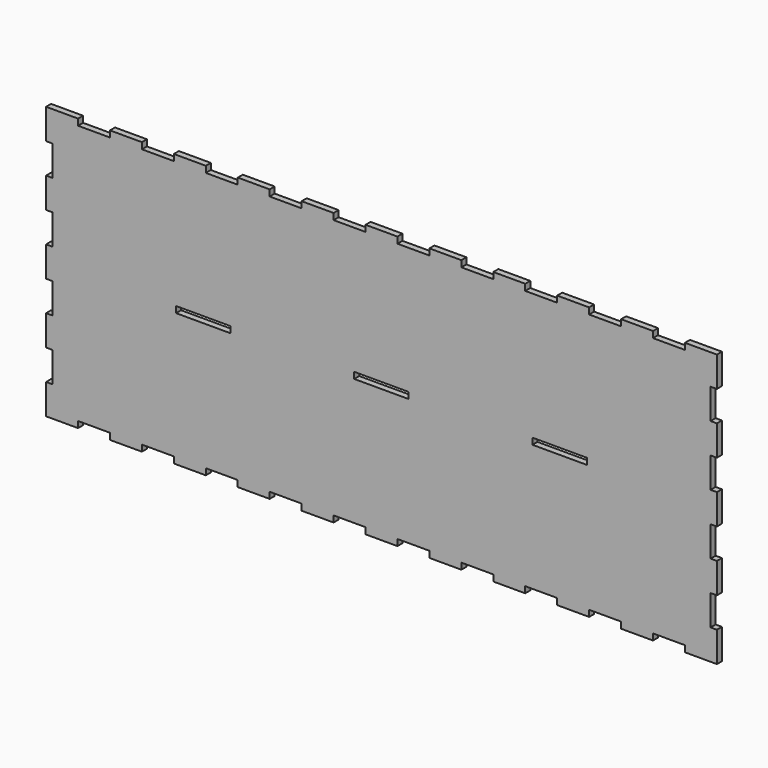
from build123d import *

# Parameters (mm, degrees)
F0_W     = 26
F0_H     = 3
F1_DEPTH = 3


with BuildPart() as f1:
    # F0 (on Front) → F1 (new body)
    with BuildSketch(Plane.XZ):
        Polygon((160, 61.999998), (160, 64.999998), (144.761429, 64.999998), (144.761429, 61.999998), (129.523333, 61.999998), (129.523333, 64.999998), (114.285238, 64.999998), (114.285238, 61.999998), (99.047143, 61.999998), (99.047143, 64.999998), (83.809048, 64.999998), (83.809048, 61.999998), (68.570952, 61.999998), (68.570952, 64.999998), (53.332952, 64.999998), (53.332952, 61.999998), (38.094952, 61.999998), (38.094952, 64.999998), (22.856952, 64.999998), (22.856952, 61.999998), (7.618857, 61.999998), (7.618857, 64.999998), (-7.619238, 64.999998), (-7.619238, 61.999998), (-22.857333, 61.999998), (-22.857333, 64.999998), (-38.095429, 64.999998), (-38.095429, 61.999998), (-53.333524, 61.999998), (-53.333524, 64.999998), (-68.571619, 64.999998), (-68.571619, 61.999998), (-83.809714, 61.999998), (-83.809714, 64.999998), (-99.047714, 64.999998), (-99.047714, 61.999998), (-114.285714, 61.999998), (-114.285714, 64.999998), (-129.52381, 64.999998), (-129.52381, 61.999998), (-144.761905, 61.999998), (-144.761905, 64.999998), (-160, 64.999998), (-160, 50.555558), (-157, 50.555558), (-157, 36.111118), (-160, 36.111118), (-160, 21.666678), (-157, 21.666678), (-157, 7.222238), (-160, 7.222238), (-160, 1.5), (-160, -1.5), (-160, -7.222202), (-157, -7.222202), (-157, -21.666642), (-160, -21.666642), (-160, -36.111082), (-157, -36.111082), (-157, -50.555526), (-160, -50.555526), (-160, -64.999998), (-144.761905, -64.999998), (-144.761905, -61.999998), (-129.52381, -61.999998), (-129.52381, -64.999998), (-114.285714, -64.999998), (-114.285714, -61.999998), (-99.047714, -61.999998), (-99.047714, -64.999998), (-83.809714, -64.999998), (-83.809714, -61.999998), (-68.571619, -61.999998), (-68.571619, -64.999998), (-53.333524, -64.999998), (-53.333524, -61.999998), (-38.095429, -61.999998), (-38.095429, -64.999998), (-22.857333, -64.999998), (-22.857333, -61.999998), (-7.619238, -61.999998), (-7.619238, -64.999998), (7.618857, -64.999998), (7.618857, -61.999998), (22.856952, -61.999998), (22.856952, -64.999998), (38.094952, -64.999998), (38.094952, -61.999998), (53.332952, -61.999998), (53.332952, -64.999998), (68.570952, -64.999998), (68.570952, -61.999998), (83.809048, -61.999998), (83.809048, -64.999998), (99.047143, -64.999998), (99.047143, -61.999998), (114.285238, -61.999998), (114.285238, -64.999998), (129.523333, -64.999998), (129.523333, -61.999998), (144.761429, -61.999998), (144.761429, -64.999998), (160, -64.999998), (160, -61.999998), (160, -50.555526), (157, -50.555526), (157, -36.111082), (160, -36.111082), (160, -21.666642), (157, -21.666642), (157, -7.222202), (160, -7.222202), (160, -1.5), (160, 1.5), (160, 7.222238), (157, 7.222238), (157, 21.666678), (160, 21.666678), (160, 36.111118), (157, 36.111118), (157, 50.555558), (160, 50.555558), align=None)
        with Locations((-85, 0)):
            Rectangle(F0_W, F0_H, mode=Mode.SUBTRACT)
        Rectangle(F0_W, F0_H, mode=Mode.SUBTRACT)
        with Locations((85, 0)):
            Rectangle(F0_W, F0_H, mode=Mode.SUBTRACT)
    extrude(amount=F1_DEPTH)


solid = f1.part
